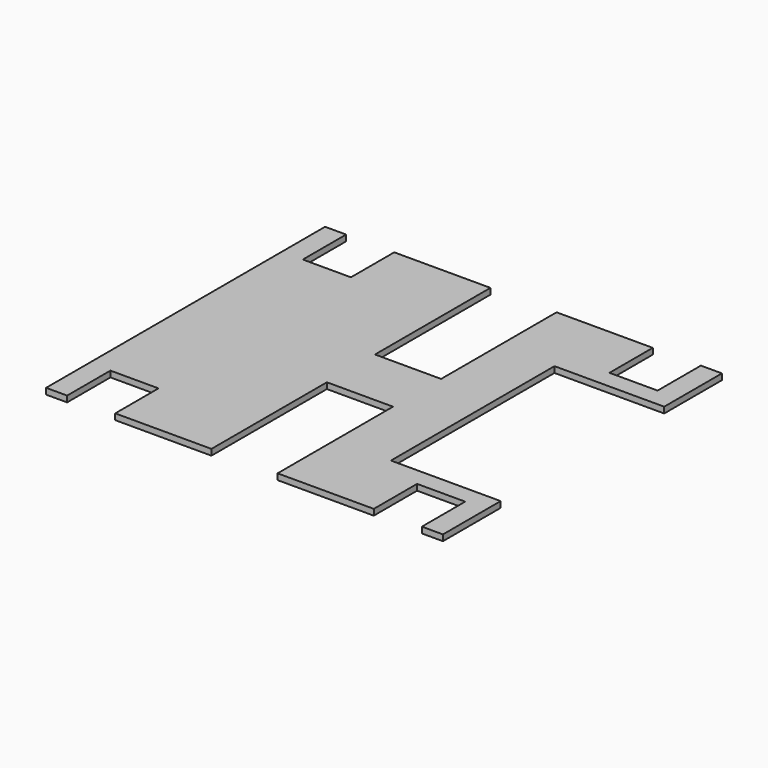
from build123d import *

# Parameters (mm, degrees)
F1_DEPTH = 12.7


with BuildPart() as f1:
    # F0 (on Top) → F1 (new body)
    with BuildSketch(Plane.XY):
        Polygon((187.325, -271.779446), (187.325, 160.020554), (419.1, 160.020554), (419.1, 312.420554), (374.65, 312.420554), (374.65, 198.120554), (273.05, 198.120554), (273.05, 312.420554), (69.85, 312.420554), (69.85, 7.620554), (-69.85, 7.620554), (-69.85, 312.420554), (-273.05, 312.420554), (-273.05, 198.120554), (-374.65, 198.120554), (-374.65, 312.420554), (-419.1, 312.420554), (-419.1, -424.179446), (-374.65, -424.179446), (-374.65, -309.879446), (-273.05, -309.879446), (-273.05, -424.179446), (-69.85, -424.179446), (-69.85, -119.379446), (69.85, -119.379446), (69.85, -424.179446), (273.05, -424.179446), (273.05, -309.879446), (374.65, -309.879446), (374.65, -424.179446), (419.1, -424.179446), (419.1, -271.779446), align=None)
    extrude(amount=F1_DEPTH)


solid = f1.part
